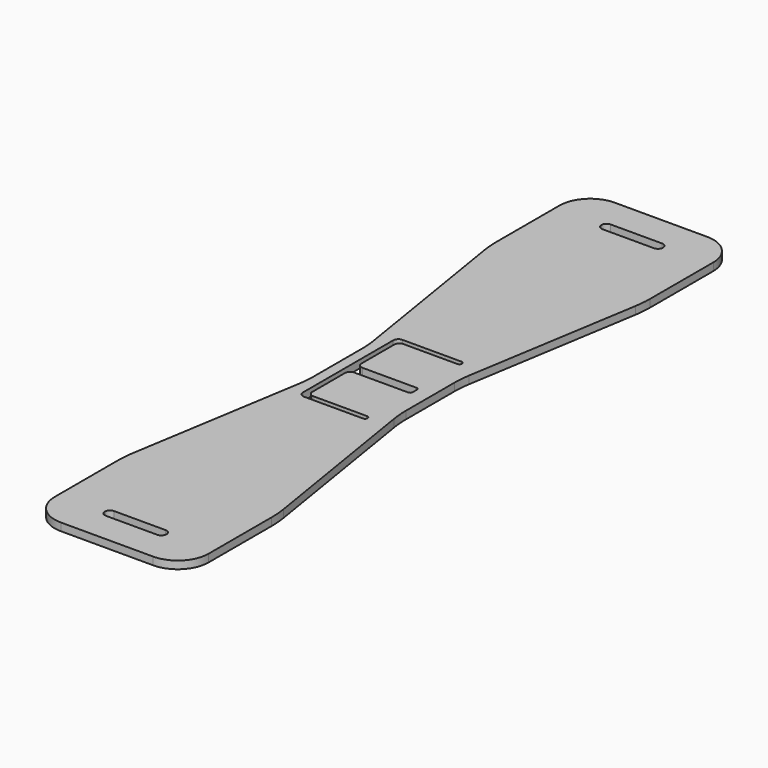
from build123d import *

# Parameters (mm, degrees)
F1_DEPTH = 1.5
F2_R     = 6
F3_R     = 20


with BuildPart() as f1:
    # F0 (on Top) → F1 (new body)
    with BuildSketch(Plane.XY):
        Polygon((16.235917, 84.775943), (-13.764083, 84.775943), (-13.764083, 61.775943), (-7.764083, 24.775943), (-7.764083, 9.775943), (-13.764083, -27.224057), (-13.764083, -50.224057), (16.235917, -50.224057), (16.235917, -27.224057), (10.235917, 9.775943), (10.235917, 24.775943), (16.235917, 61.775943), align=None)
        with BuildLine():
            ThreePointArc((-4.764083, -43.224057), (-4.471189, -42.51695), (-3.764083, -42.224057))
            Line((-3.764083, -42.224057), (6.235917, -42.224057))
            ThreePointArc((6.235917, -42.224057), (6.943024, -42.51695), (7.235917, -43.224057))
            ThreePointArc((7.235917, -43.224057), (6.943024, -43.931164), (6.235917, -44.224057))
            Line((6.235917, -44.224057), (-3.764083, -44.224057))
            ThreePointArc((-3.764083, -44.224057), (-4.471189, -43.931164), (-4.764083, -43.224057))
        make_face(mode=Mode.SUBTRACT)
        with BuildLine():
            Line((6.735917, 28.275943), (-3.764083, 28.275943))
            ThreePointArc((-3.764083, 28.275943), (-4.471189, 27.98305), (-4.764083, 27.275943))
            Line((-4.764083, 27.275943), (-4.764083, 19.275943))
            ThreePointArc((-4.764083, 19.275943), (-4.471189, 18.568836), (-3.764083, 18.275943))
            Line((-3.764083, 18.275943), (6.735917, 18.275943))
            ThreePointArc((6.735917, 18.275943), (7.089471, 18.129496), (7.235917, 17.775943))
            Line((7.235917, 17.775943), (7.235917, 17.275943))
            Line((7.235917, 17.275943), (7.235917, 16.775943))
            ThreePointArc((7.235917, 16.775943), (7.089471, 16.42239), (6.735917, 16.275943))
            Line((6.735917, 16.275943), (-3.764083, 16.275943))
            ThreePointArc((-3.764083, 16.275943), (-4.471189, 15.98305), (-4.764083, 15.275943))
            Line((-4.764083, 15.275943), (-4.764083, 7.275943))
            ThreePointArc((-4.764083, 7.275943), (-4.471189, 6.568836), (-3.764083, 6.275943))
            Line((-3.764083, 6.275943), (6.735917, 6.275943))
            ThreePointArc((6.735917, 6.275943), (7.089471, 6.129496), (7.235917, 5.775943))
            ThreePointArc((7.235917, 5.775943), (7.089471, 5.42239), (6.735917, 5.275943))
            Line((6.735917, 5.275943), (-4.764083, 5.275943))
            ThreePointArc((-4.764083, 5.275943), (-5.471189, 5.568836), (-5.764083, 6.275943))
            Line((-5.764083, 6.275943), (-5.764083, 16.775943))
            Line((-5.764083, 16.775943), (-5.764083, 17.775943))
            Line((-5.764083, 17.775943), (-5.764083, 28.275943))
            ThreePointArc((-5.764083, 28.275943), (-5.471189, 28.98305), (-4.764083, 29.275943))
            Line((-4.764083, 29.275943), (6.735917, 29.275943))
            ThreePointArc((6.735917, 29.275943), (7.089471, 29.129496), (7.235917, 28.775943))
            ThreePointArc((7.235917, 28.775943), (7.089471, 28.42239), (6.735917, 28.275943))
        make_face(mode=Mode.SUBTRACT)
        with BuildLine():
            Line((6.235917, 76.775943), (-3.764083, 76.775943))
            ThreePointArc((-3.764083, 76.775943), (-4.471189, 77.068836), (-4.764083, 77.775943))
            ThreePointArc((-4.764083, 77.775943), (-4.471189, 78.48305), (-3.764083, 78.775943))
            Line((-3.764083, 78.775943), (6.235917, 78.775943))
            ThreePointArc((6.235917, 78.775943), (6.943024, 78.48305), (7.235917, 77.775943))
            ThreePointArc((7.235917, 77.775943), (6.943024, 77.068836), (6.235917, 76.775943))
        make_face(mode=Mode.SUBTRACT)
    extrude(amount=F1_DEPTH)

    # F2
    f2_edges = [f1.edges().sort_by_distance(p)[0] for p in [
        (16.235917, 84.775943, 0.75),
        (-13.764083, 84.775943, 0.75),
        (-13.764083, -50.224057, 0.75),
        (16.235917, -50.224057, 0.75),
    ]]
    fillet(f2_edges, radius=F2_R)

    # F3
    f3_edges = [f1.edges().sort_by_distance(p)[0] for p in [
        (16.235917, 61.775943, 0.75),
        (-13.764083, 61.775943, 0.75),
        (16.235917, -27.224057, 0.75),
        (-13.764083, -27.224057, 0.75),
        (-7.764083, 9.775943, 0.75),
        (10.235917, 9.775943, 0.75),
        (10.235917, 24.775943, 0.75),
        (-7.764083, 24.775943, 0.75),
    ]]
    fillet(f3_edges, radius=F3_R)


solid = f1.part
